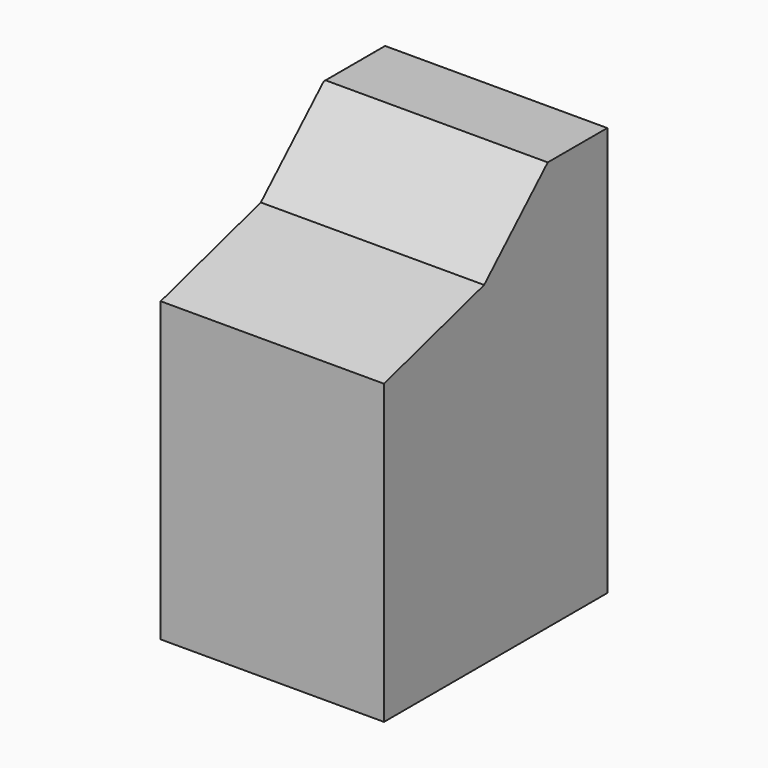
from build123d import *

# Parameters (mm, degrees)
F1_DEPTH = 304.8
F2_R     = 4.572


with BuildPart() as f1:
    # F0 (on Right) → F1 (new body, symmetric)
    with BuildSketch(Plane.YZ):
        Polygon((-493.39557, -659.903709), (268.60443, -659.903709), (268.60443, 457.696393), (65.40442, 457.696393), (-151.710834, 251.400065), (-493.39557, 152.896393), align=None)
    extrude(amount=F1_DEPTH, both=True)

    # F2
    f2_edges = [f1.edges().sort_by_distance(p)[0] for p in [
        (-304.8, 167.004425, 457.696393),
        (-304.8, 268.60443, -101.103658),
    ]]
    fillet(f2_edges, radius=F2_R)


solid = f1.part
